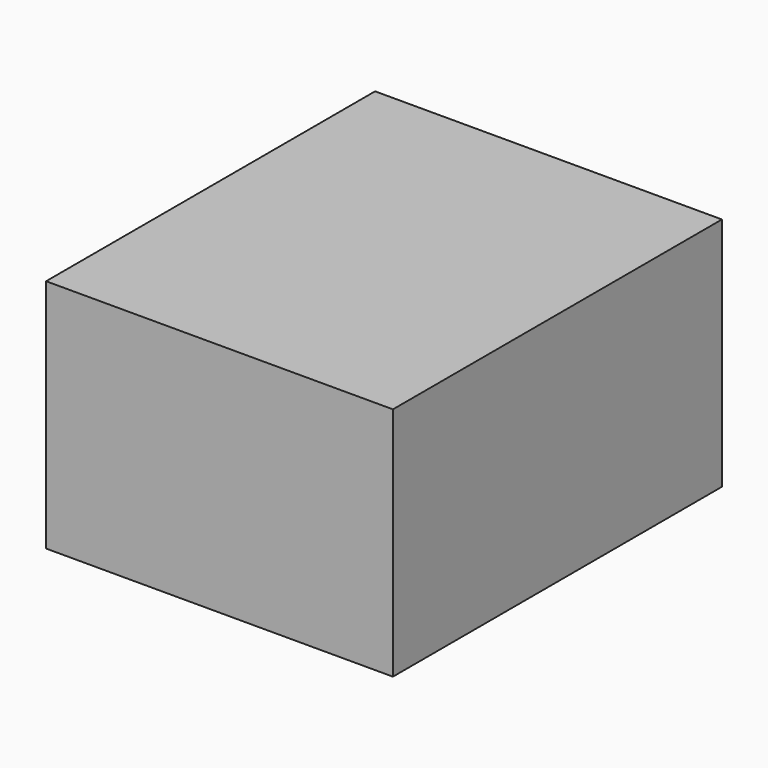
from build123d import *

# Parameters (mm, degrees)
CYLINDER006_R            = 1.45
CYLINDER006_DEPTH        = 46.5
ARRAY003_X_COUNT         = 2
ARRAY003_X_PITCH         = 58
ARRAY003_Y_COUNT         = 2
ARRAY003_Y_PITCH         = 69
CYLINDER005_R            = 6
CYLINDER005_DEPTH        = 44.5
ARRAY002_X_COUNT         = 2
ARRAY002_X_PITCH         = 58
ARRAY002_Y_COUNT         = 2
ARRAY002_Y_PITCH         = 69
CYLINDER004_R            = 2.2
CYLINDER004_DEPTH        = 10
ARRAY001_X_COUNT         = 2
ARRAY001_X_PITCH         = 20
ARRAY001_Y_COUNT         = 2
ARRAY001_Y_PITCH         = 20
ARRAY001_PLACEMENT_ANGLE = 90
BOX020_W                 = 12
BOX020_H                 = 30
BOX020_DEPTH             = 8
BOX006_W                 = 68
BOX006_H                 = 79
BOX006_DEPTH             = 46.5
BOX005_W                 = 70
BOX005_H                 = 83
BOX005_DEPTH             = 47.5


with BuildPart() as screw_hole_array:
    # Cylinder006 → Cylinder006 (new body)
    with BuildSketch(Plane(origin=(5, 5, 0), x_dir=(1, 0, 0), z_dir=(0, 0, 1))):
        Circle(CYLINDER006_R)
    extrude(amount=CYLINDER006_DEPTH)

    # Array003 X: screw hole array ×2


with BuildPart() as screw_hole_array_1:
    add(screw_hole_array.part)
    with Locations(*[(i * ARRAY003_X_PITCH, 0, 0) for i in range(1, ARRAY003_X_COUNT)]):
        add(screw_hole_array.part)

    # Array003 Y: screw hole array ×2


with BuildPart() as screw_hole_array_2:
    add(screw_hole_array_1.part)
    with Locations(*[(0, i * ARRAY003_Y_PITCH, 0) for i in range(1, ARRAY003_Y_COUNT)]):
        add(screw_hole_array_1.part)


with BuildPart() as bolt_stand_fusion:
    # Cylinder005 → Cylinder005 (new body)
    with BuildSketch(Plane(origin=(5, 5, 2.5), x_dir=(1, 0, 0), z_dir=(0, 0, 1))):
        Circle(CYLINDER005_R)
    extrude(amount=CYLINDER005_DEPTH)

    # Array002 X: bolt stand fusion ×2


with BuildPart() as bolt_stand_fusion_1:
    add(bolt_stand_fusion.part)
    with Locations(*[(i * ARRAY002_X_PITCH, 0, 0) for i in range(1, ARRAY002_X_COUNT)]):
        add(bolt_stand_fusion.part)

    # Array002 Y: bolt stand fusion ×2


with BuildPart() as bolt_stand_fusion_2:
    add(bolt_stand_fusion_1.part)
    with Locations(*[(0, i * ARRAY002_Y_PITCH, 0) for i in range(1, ARRAY002_Y_COUNT)]):
        add(bolt_stand_fusion_1.part)

    # Cut001004: cut screw hole array
    add(screw_hole_array_2.part, mode=Mode.SUBTRACT)


with BuildPart() as top_insert_hole_array:
    # Cylinder004 → Cylinder004 (new body)
    with BuildSketch(Plane.XY):
        Circle(CYLINDER004_R)
    extrude(amount=CYLINDER004_DEPTH)

    # Array001 X: top insert hole array ×2


with BuildPart() as top_insert_hole_array_1:
    add(top_insert_hole_array.part)
    with Locations(*[(i * ARRAY001_X_PITCH, 0, 0) for i in range(1, ARRAY001_X_COUNT)]):
        add(top_insert_hole_array.part)

    # Array001 Y: top insert hole array ×2


with BuildPart() as top_insert_hole_array_2:
    add(top_insert_hole_array_1.part)
    with Locations(*[(0, i * ARRAY001_Y_PITCH, 0) for i in range(1, ARRAY001_Y_COUNT)]):
        add(top_insert_hole_array_1.part)


with BuildPart() as top_insert_hole_array_3:
    # Array001 placement: moved
    add(top_insert_hole_array_2.part.moved(Location((24, 88, 16))).rotate(Axis((24, 88, 16), (1, 0, 0)), ARRAY001_PLACEMENT_ANGLE))


with BuildPart() as micro_usb_hole:
    # Box020 → Box020 (new body)
    with BuildSketch(Plane(origin=(-15, 30.2, 23.65), x_dir=(0, 0, 1), z_dir=(0, 1, 0))):
        with Locations((6, 15)):
            Rectangle(BOX020_W, BOX020_H)
    extrude(amount=BOX020_DEPTH)


with BuildPart() as back_box_extract_fusion:
    # Box006 → Box006 (new body)
    with BuildSketch(Plane.XY):
        with Locations((34, 39.5)):
            Rectangle(BOX006_W, BOX006_H)
    extrude(amount=BOX006_DEPTH)

    # Fusion006: union top insert hole array, micro usb hole
    add(top_insert_hole_array_3.part)
    add(micro_usb_hole.part)


with BuildPart() as back_box_fusion:
    # Box005 → Box005 (new body)
    with BuildSketch(Plane(origin=(-1, -1, 0), x_dir=(1, 0, 0), z_dir=(0, 0, 1))):
        with Locations((35, 41.5)):
            Rectangle(BOX005_W, BOX005_H)
    extrude(amount=BOX005_DEPTH)

    # Cut001003: cut back box extract fusion
    add(back_box_extract_fusion.part, mode=Mode.SUBTRACT)

    # Fusion007: union bolt stand fusion
    add(bolt_stand_fusion_2.part)


solid = back_box_fusion.part
